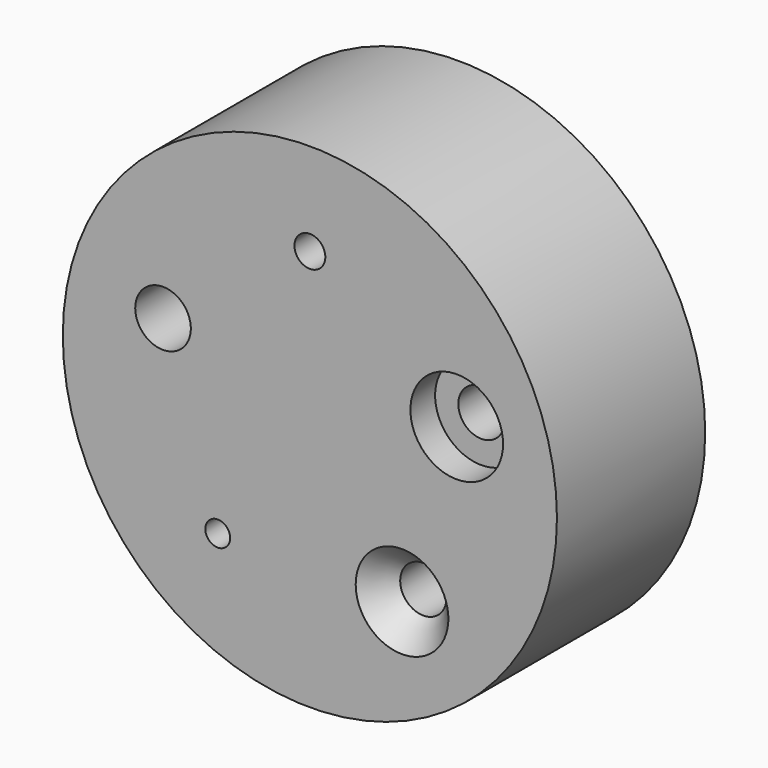
from build123d import *

# Parameters (mm, degrees)
F0_R           = 50.8
F0_R_2         = 1.5875
F0_R_3         = 9.525
F0_R_4         = 5.715
F0_R_5         = 3.175
F0_R_6         = 4.7625
F1_DEPTH       = 38.1
F2_D           = 6.35
F3_D           = 9.525
F3_CBORE_D     = 19.05
F3_CBORE_DEPTH = 6.35
F4_D           = 9.525
F4_CSINK_D     = 19.05
F4_CSINK_ANGLE = 82
F5_D           = 5.1054
F5_DEPTH       = 38.1
F5_TIP         = 1.5338169022
F6_D           = 11.43


with BuildPart() as f1:
    # F0 (on Front) → F1 (new body)
    with BuildSketch(Plane.XZ):
        with Locations((-1.0572489118, 7.1283597499)):
            Circle(F0_R)
        with Locations((-20.0026774298, -18.3497335514)):
            Circle(F0_R_2, mode=Mode.SUBTRACT)
        with Locations((17.8881796061, -18.3497335514)):
            Circle(F0_R_3, mode=Mode.SUBTRACT)
        with Locations((-31.2532933042, 16.9396493213)):
            Circle(F0_R_4, mode=Mode.SUBTRACT)
        with Locations((-1.0572489118, 38.8783597499)):
            Circle(F0_R_5, mode=Mode.SUBTRACT)
        with Locations((29.1387954806, 16.9396493213)):
            Circle(F0_R_3, mode=Mode.SUBTRACT)
        with Locations((29.1387954806, 16.9396493213)):
            Circle(F0_R_3)
        with Locations((29.1387954806, 16.9396493213)):
            Circle(F0_R_6, mode=Mode.SUBTRACT)
        with Locations((17.8881796061, -18.3497335514)):
            Circle(F0_R_3)
        with Locations((17.8881796061, -18.3497335514)):
            Circle(F0_R_6, mode=Mode.SUBTRACT)
        with Locations((-31.2532933042, 16.9396493213)):
            Circle(F0_R_4)
        with Locations((29.1387954806, 16.9396493213)):
            Circle(F0_R_6)
        with Locations((17.8881796061, -18.3497335514)):
            Circle(F0_R_6)
        with Locations((-1.0572489118, 38.8783597499)):
            Circle(F0_R_5)
        with Locations((-20.0026774298, -18.3497335514)):
            Circle(F0_R_2)
    extrude(amount=-F1_DEPTH)

    # F2 (through all)
    with Locations(Plane.XZ):
        with Locations((-1.0572489118, 38.8783597499)):
            Hole(F2_D / 2)

    # F3 (through all)
    with Locations(Plane.XZ):
        with Locations((29.1387954806, 16.9396493213)):
            CounterBoreHole(F3_D / 2, F3_CBORE_D / 2, F3_CBORE_DEPTH)

    # F4 (through all)
    with Locations(Plane.XZ):
        with Locations((17.8881796061, -18.3497335514)):
            CounterSinkHole(F4_D / 2, F4_CSINK_D / 2, counter_sink_angle=F4_CSINK_ANGLE)

    # F5
    with Locations(Plane.XZ):
        with Locations((-20.0026774298, -18.3497335514)):
            Hole(F5_D / 2, depth=F5_DEPTH)
            with Locations((0, 0, -(F5_DEPTH + F5_TIP / 2))):  # 118° drill point
                Cone(0, F5_D / 2, F5_TIP, mode=Mode.SUBTRACT)

    # F6 (through all)
    with Locations(Plane.XZ):
        with Locations((-31.2532933042, 16.9396493213)):
            Hole(F6_D / 2)


solid = f1.part
